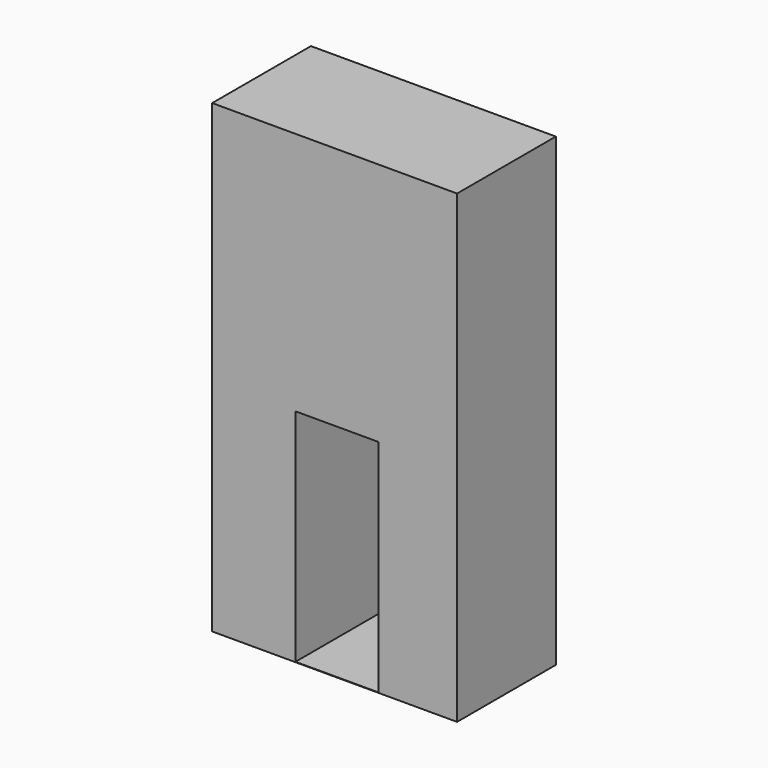
from build123d import *

# Parameters (mm, degrees)
F0_W      = 36.8749946356
F0_H      = 46.3530421257
F1_DEPTH  = 43.4907004237
F4_DEPTH  = 25.4
F4_FACE_W = 50.4002720118
F4_FACE_H = 95.7473944873
F6_DEPTH  = 80.4695729166


with BuildPart() as f1:
    # F0 (on Top) → F1 (new body)
    with BuildSketch(Plane.XY):
        with Locations((18.4374973178, -11.0187307)):
            Rectangle(F0_W, F0_H)
    extrude(amount=F1_DEPTH)


with BuildPart() as f4:
    # F3 (on Front) → F4 (new body)
    with BuildSketch(Plane.XZ):
        Polygon((-21.5003099293, 85.1215198636), (-21.5003099293, 46.1357757449), (-21.5003099293, -10.6258746237), (28.8999620825, -10.6258746237), (28.8999620825, 85.1215198636), align=None)
    extrude(amount=F4_DEPTH)

    # F4_face (on face) + F5 (on Front) → F6 (cut)
    with BuildSketch(Plane(origin=(3.6998260766, -25.4, 37.24782262), x_dir=(1, 0, 0), z_dir=(0, -1, 0))):
        Rectangle(F4_FACE_W, F4_FACE_H)
    with BuildSketch(Plane.XZ):
        Polygon((-4.3523218483, 0), (-4.3523218483, -10.5397570878), (12.7652771771, -10.5397570878), (12.7652771771, 34.8452031612), (-4.3523218483, 34.8452031612), align=None)
    extrude(amount=F6_DEPTH, mode=Mode.SUBTRACT)


solid = f4.part
